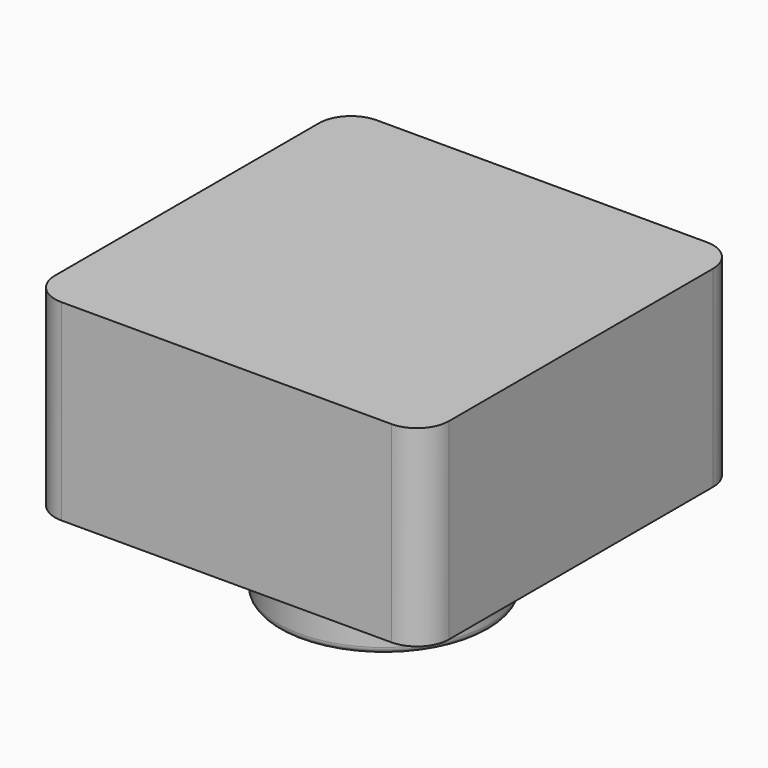
from build123d import *

# Parameters (mm, degrees)
F0_W     = 6.15
F0_H     = 6.15
F1_DEPTH = 3
F2_R     = 0.5
F3_R     = 1.65
F4_DEPTH = 1.4
F5_R     = 0.1


with BuildPart() as f1:
    # F0 (on Top) → F1 (new body)
    with BuildSketch(Plane.XY):
        with Locations((3.075, -3.075)):
            Rectangle(F0_W, F0_H)
    extrude(amount=F1_DEPTH)

    # F2
    f2_edges = [f1.edges().sort_by_distance(p)[0] for p in [
        (0, 0, 1.5),
        (6.15, 0, 1.5),
        (0, -6.15, 1.5),
        (6.15, -6.15, 1.5),
    ]]
    fillet(f2_edges, radius=F2_R)

    # F3 (on face) → F4 (join)
    with BuildSketch(Plane(origin=(0, 0, 0), x_dir=(1, 0, 0), z_dir=(0, 0, -1))):
        with Locations((3.075, 3.075)):
            Circle(F3_R)
    extrude(amount=F4_DEPTH)

    # F5
    f5_edges = [f1.edges().sort_by_distance(p)[0] for p in [
        (1.425, -3.075, -1.4),
    ]]
    fillet(f5_edges, radius=F5_R)


solid = f1.part
